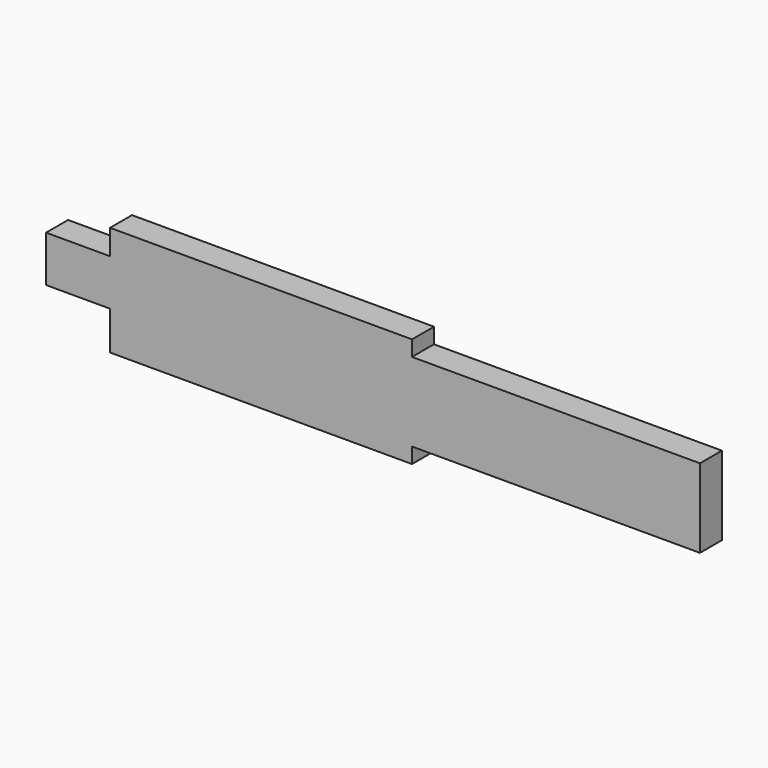
from build123d import *

# Parameters (mm, degrees)
F0_W     = 69.857972
F0_H     = 25.4
F1_DEPTH = 6.35
F2_W     = 15.100554
F2_H     = 10.679496
F2_W_2   = 114.3
F2_H_2   = 18.241366
F3_DEPTH = 6.35


with BuildPart() as f1:
    # F0 (on Front) → F1 (new body)
    with BuildSketch(Plane.XZ):
        Rectangle(F0_W, F0_H)
    extrude(amount=F1_DEPTH)

    # F2 (on Front) → F3 (join)
    with BuildSketch(Plane.XZ):
        with Locations((-42.164538, 1.567621)):
            Rectangle(F2_W, F2_H)
        with Locations((44.382397, 0)):
            Rectangle(F2_W_2, F2_H_2)
    extrude(amount=F3_DEPTH)


solid = f1.part
